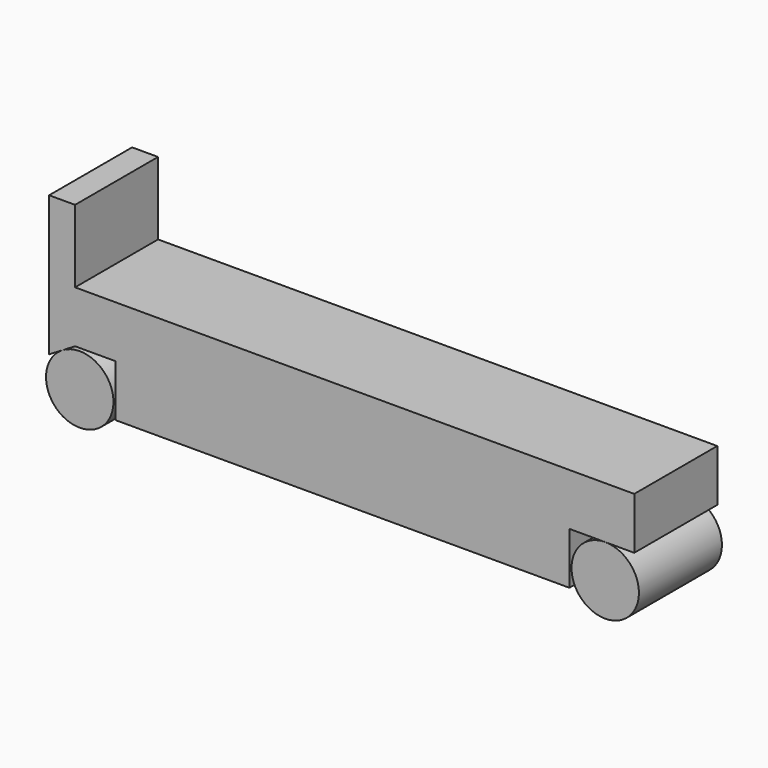
from build123d import *

# Parameters (mm, degrees)
F1_DEPTH = 25.4
F3_DEPTH = 25.4
F4_R     = 8.255
F5_DEPTH = 25.4
F6_R     = 8.255
F7_DEPTH = 25.4


with BuildPart() as f1:
    # F0 (on Front) → F1 (new body)
    with BuildSketch(Plane.XZ):
        Polygon((136.906, 0), (0, 0), (0, -12.7), (9.906, -12.7), (9.906, -25.4), (121.031, -25.4), (121.031, -12.7), (136.906, -12.7), align=None)
    extrude(amount=F1_DEPTH)

    # F2 (on Front) → F3 (join)
    with BuildSketch(Plane.XZ):
        Polygon((-6.35, -16.51), (0, -12.7), (0, 17.78), (-6.35, 17.78), align=None)
    extrude(amount=F3_DEPTH)


with BuildPart() as f5:
    # F4 (on face) → F5 (new body)
    with BuildSketch(Plane.XZ.offset(25.4)):
        with Locations((1.143, -21.641102)):
            Circle(F4_R)
    extrude(amount=-F5_DEPTH)


with BuildPart() as f7:
    # F6 (on face) → F7 (new body)
    with BuildSketch(Plane.XZ.offset(25.4)):
        with Locations((129.794, -20.955)):
            Circle(F6_R)
    extrude(amount=-F7_DEPTH)


solid = Compound([f1.part, f5.part, f7.part])
